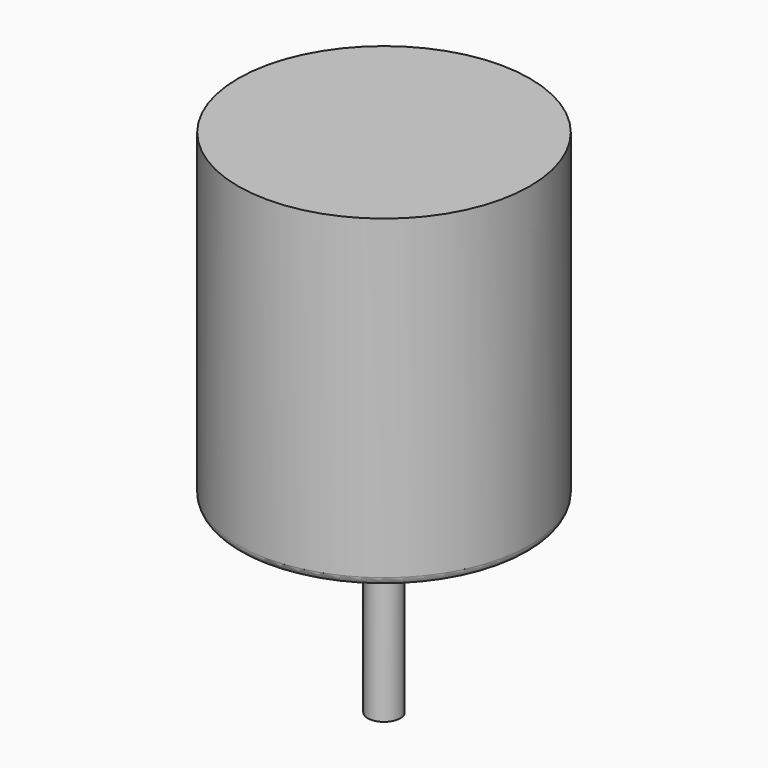
from build123d import *

# Parameters (mm, degrees)
F0_R     = 18
F1_DEPTH = 40
F2_R     = 6.5
F3_DEPTH = 5
F4_R     = 2
F5_DEPTH = 23
F6_R     = 1


with BuildPart() as f1:
    # F0 (on Top) → F1 (new body)
    with BuildSketch(Plane.XY):
        Circle(F0_R)
    extrude(amount=F1_DEPTH)

    # F2 (on Top) → F3 (join)
    with BuildSketch(Plane.XY):
        Circle(F2_R)
    extrude(amount=-F3_DEPTH)

    # F4 (on Top) → F5 (join)
    with BuildSketch(Plane.XY):
        Circle(F4_R)
    extrude(amount=-F5_DEPTH)

    # F6
    f6_edges = [f1.edges().sort_by_distance(p)[0] for p in [
        (-18, 0, 0),
    ]]
    fillet(f6_edges, radius=F6_R)


solid = f1.part
